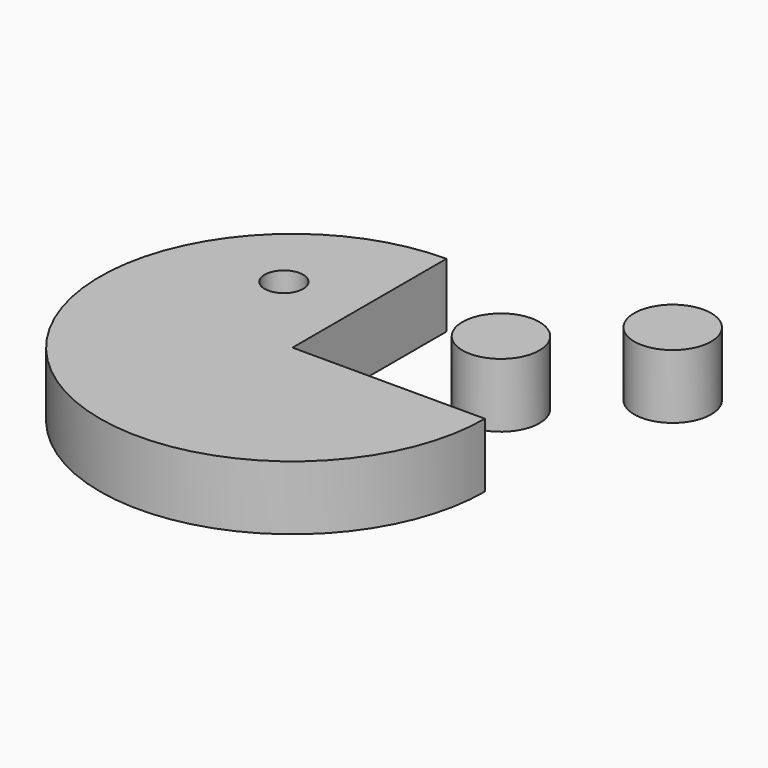
from build123d import *

# Parameters (mm, degrees)
F1_DEPTH = 10
F2_R     = 3
F3_DEPTH = 10
F4_R     = 6
F5_DEPTH = 10
F6_R     = 6
F7_DEPTH = 10


with BuildPart() as f1:
    # F0 (on Top) → F1 (new body)
    with BuildSketch(Plane.XY):
        with BuildLine():
            Line((0, 0), (0, 30))
            ThreePointArc((0, 30), (-21.213203, -21.213203), (30, 0))
            Line((30, 0), (0, 0))
        make_face()
    extrude(amount=F1_DEPTH)

    # F2 (on face) → F3 (cut)
    with BuildSketch(Plane.XY.offset(10)):
        with Locations((-11.66472, 12.898528)):
            Circle(F2_R)
    extrude(amount=-F3_DEPTH, mode=Mode.SUBTRACT)


with BuildPart() as f5:
    # F4 (on Top) → F5 (new body)
    with BuildSketch(Plane.XY):
        with Locations((17.928179, 18.211897)):
            Circle(F4_R)
    extrude(amount=F5_DEPTH)


with BuildPart() as f7:
    # F6 (on Top) → F7 (new body)
    with BuildSketch(Plane.XY):
        with Locations((32.803044, 33.086766)):
            Circle(F6_R)
    extrude(amount=F7_DEPTH)


solid = Compound([f1.part, f5.part, f7.part])
